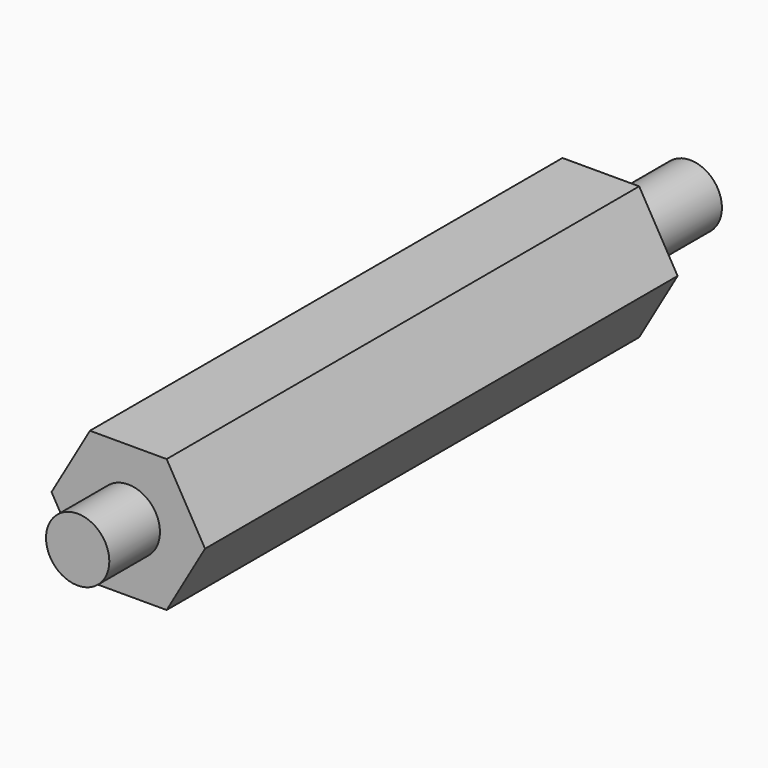
from build123d import *

# Parameters (mm, degrees)
F1_DEPTH = 28
F2_R     = 1.5
F3_DEPTH = 5.3
F4_R     = 1.5
F5_DEPTH = 31


with BuildPart() as f1:
    # F0 (on Front) → F1 (new body)
    with BuildSketch(Plane.XZ):
        Polygon((1.818653, 3.15), (-1.818653, 3.15), (-3.637307, 0), (-1.818653, -3.15), (1.818653, -3.15), (3.637307, 0), align=None)
    extrude(amount=F1_DEPTH)

    # F2 (on Front) → F3 (join)
    with BuildSketch(Plane.XZ):
        Circle(F2_R)
    extrude(amount=-F3_DEPTH)

    # F4 (on Front) → F5 (join)
    with BuildSketch(Plane.XZ):
        Circle(F4_R)
    extrude(amount=F5_DEPTH)


solid = f1.part
